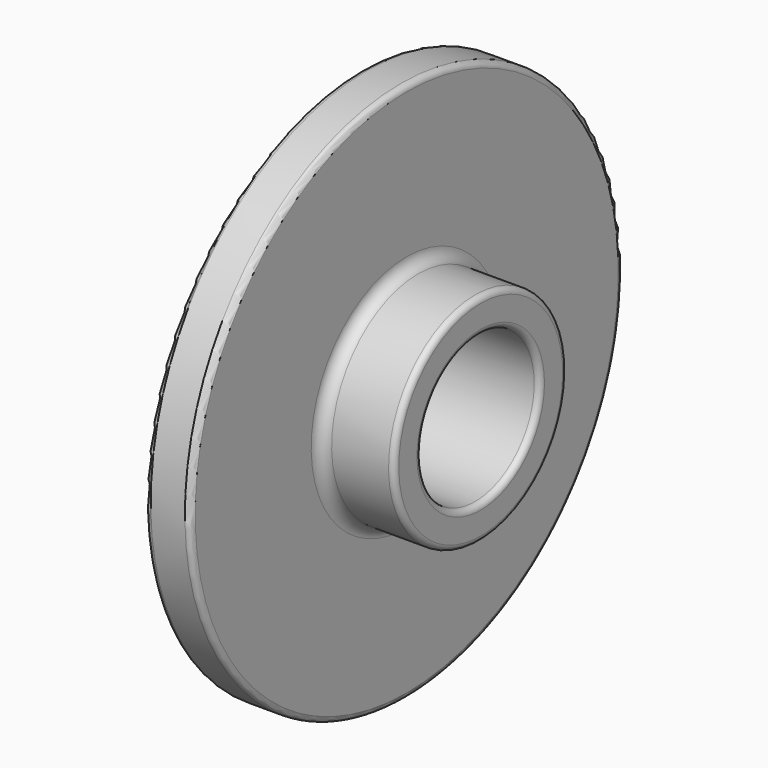
from build123d import *


with BuildPart() as f1:
    # F0 (on Front) → F1 (revolve)
    with BuildSketch(Plane.XZ):
        with BuildLine():
            Line((0.7, 4.75), (0.1, 4.75))
            ThreePointArc((0.1, 4.75), (0.029289, 4.720711), (0, 4.65))
            Line((0, 4.65), (0, 1.4))
            ThreePointArc((0, 1.4), (0.029289, 1.329289), (0.1, 1.3))
            Line((0.1, 1.3), (2, 1.3))
            ThreePointArc((2, 1.3), (2.070711, 1.329289), (2.1, 1.4))
            Line((2.1, 1.4), (2.1, 1.8))
            ThreePointArc((2.1, 1.8), (2.070711, 1.870711), (2, 1.9))
            Line((2, 1.9), (1, 1.9))
            ThreePointArc((1, 1.9), (0.858579, 1.958579), (0.8, 2.1))
            Line((0.8, 2.1), (0.8, 4.65))
            ThreePointArc((0.8, 4.65), (0.770711, 4.720711), (0.7, 4.75))
        make_face()
    revolve(axis=Axis((1.4629, 0, 0), (1, 0, 0)))


solid = f1.part
